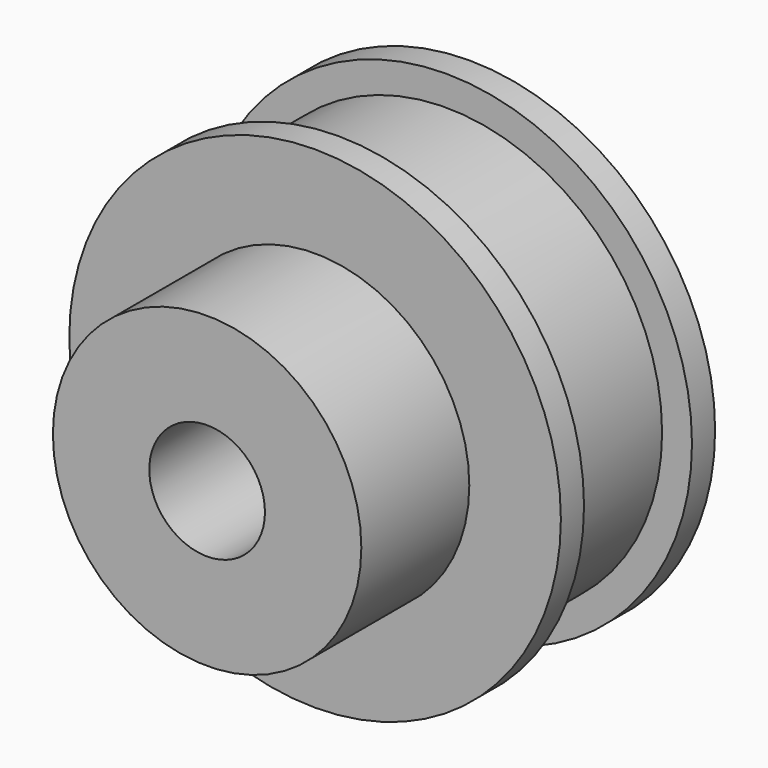
from build123d import *


with BuildPart() as part:
    # Sketch → Revolution (revolve)
    with BuildSketch(Plane.XY):
        Polygon((3, 0), (3, 17), (12.75, 17), (12.75, 15.5), (11.2, 15.5), (11.2, 8.5), (12.75, 8.5), (12.75, 7), (8, 7), (8, 0), align=None)
    revolve(axis=Axis((0, 0, 0), (0, 1, 0)))


solid = part.part
